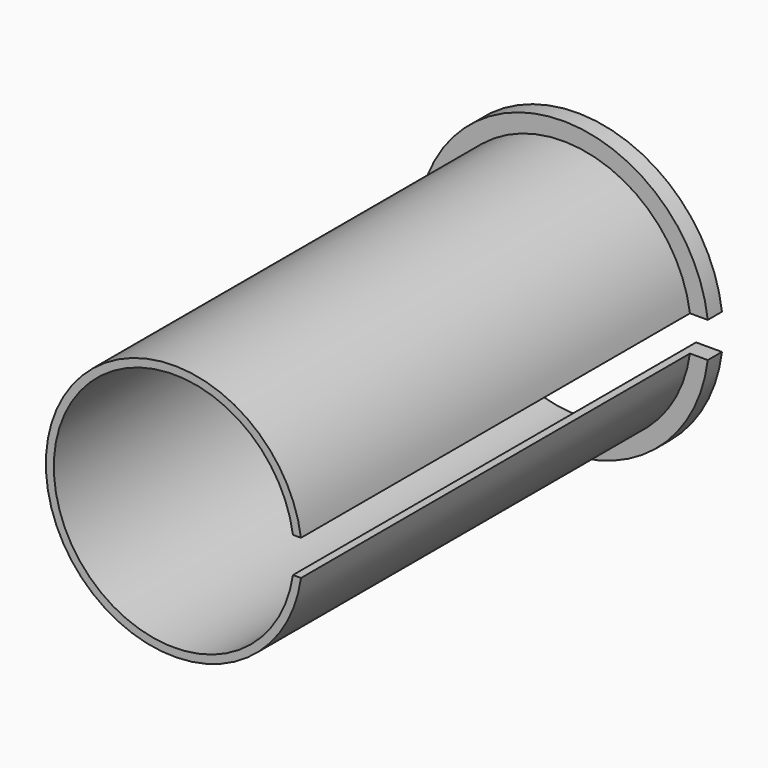
from build123d import *

# Parameters (mm, degrees)
F1_DEPTH = 2
F2_DEPTH = 57
F3_DEPTH = 127


with BuildPart() as f1:
    # F0 (on Front) → F1 (new body)
    with BuildSketch(Plane.XZ):
        with BuildLine():
            ThreePointArc((14.3614066163, -2), (-14.5, 0), (14.3614066163, 2))
            Line((14.3614066163, 2), (16.3783393542, 2))
            ThreePointArc((16.3783393542, 2), (-16.5, 0), (16.3783393542, -2))
            Line((16.3783393542, -2), (14.3614066163, -2))
        make_face()
        with BuildLine():
            Line((16.3783393542, 2), (14.3614066163, 2))
            ThreePointArc((14.3614066163, 2), (14.465310158, 1.0023981402), (14.5, 0))
            ThreePointArc((14.5, 0), (14.465310158, -1.0023981402), (14.3614066163, -2))
            Line((14.3614066163, -2), (16.3783393542, -2))
            ThreePointArc((16.3783393542, -2), (16.469556754, -1.0018484557), (16.5, 0))
            ThreePointArc((16.5, 0), (16.469556754, 1.0018484557), (16.3783393542, 2))
        make_face()
    extrude(amount=F1_DEPTH)

    # F0 (on Front) → F2 (join)
    with BuildSketch(Plane.XZ):
        with BuildLine():
            ThreePointArc((13.4521373766, -2), (-13.6, 0), (13.4521373766, 2))
            Line((13.4521373766, 2), (14.3614066163, 2))
            ThreePointArc((14.3614066163, 2), (-14.5, 0), (14.3614066163, -2))
            Line((14.3614066163, -2), (13.4521373766, -2))
        make_face()
        with BuildLine():
            ThreePointArc((13.4521373766, 2), (13.5629839697, 1.0027291952), (13.6, 0))
            ThreePointArc((13.6, 0), (13.5629839697, -1.0027291952), (13.4521373766, -2))
            Line((13.4521373766, -2), (14.3614066163, -2))
            ThreePointArc((14.3614066163, -2), (14.465310158, -1.0023981402), (14.5, 0))
            ThreePointArc((14.5, 0), (14.465310158, 1.0023981402), (14.3614066163, 2))
            Line((14.3614066163, 2), (13.4521373766, 2))
        make_face()
    extrude(amount=F2_DEPTH)

    # F0 (on Front) → F3 (cut)
    with BuildSketch(Plane.XZ):
        with BuildLine():
            Line((19.9760421067, 2), (16.3783393542, 2))
            ThreePointArc((16.3783393542, 2), (16.469556754, 1.0018484557), (16.5, 0))
            ThreePointArc((16.5, 0), (16.469556754, -1.0018484557), (16.3783393542, -2))
            Line((16.3783393542, -2), (19.9760421067, -2))
            Line((19.9760421067, -2), (19.9760421067, 2))
        make_face()
        with BuildLine():
            Line((16.3783393542, 2), (14.3614066163, 2))
            ThreePointArc((14.3614066163, 2), (14.465310158, 1.0023981402), (14.5, 0))
            ThreePointArc((14.5, 0), (14.465310158, -1.0023981402), (14.3614066163, -2))
            Line((14.3614066163, -2), (16.3783393542, -2))
            ThreePointArc((16.3783393542, -2), (16.469556754, -1.0018484557), (16.5, 0))
            ThreePointArc((16.5, 0), (16.469556754, 1.0018484557), (16.3783393542, 2))
        make_face()
        with BuildLine():
            ThreePointArc((13.4521373766, 2), (13.5629839697, 1.0027291952), (13.6, 0))
            ThreePointArc((13.6, 0), (13.5629839697, -1.0027291952), (13.4521373766, -2))
            Line((13.4521373766, -2), (14.3614066163, -2))
            ThreePointArc((14.3614066163, -2), (14.465310158, -1.0023981402), (14.5, 0))
            ThreePointArc((14.5, 0), (14.465310158, 1.0023981402), (14.3614066163, 2))
            Line((14.3614066163, 2), (13.4521373766, 2))
        make_face()
        with BuildLine():
            ThreePointArc((13.4521373766, -2), (13.5629839697, -1.0027291952), (13.6, 0))
            ThreePointArc((13.6, 0), (13.5629839697, 1.0027291952), (13.4521373766, 2))
            Line((13.4521373766, 2), (7.9760421067, 2))
            Line((7.9760421067, 2), (7.9760421067, -2))
            Line((7.9760421067, -2), (13.4521373766, -2))
        make_face()
    extrude(amount=F3_DEPTH, mode=Mode.SUBTRACT)


solid = f1.part
